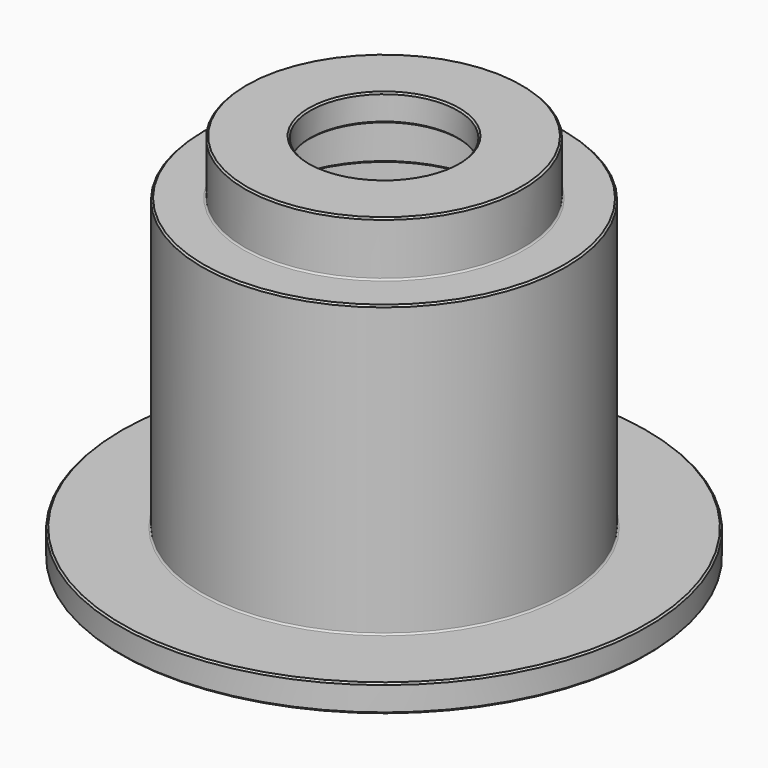
from build123d import *

# Parameters (mm, degrees)
F2_R    = 0.381
F3_SIZE = 0.381


with BuildPart() as f1:
    # F0 (on Front) → F1 (revolve)
    with BuildSketch(Plane.XZ):
        Polygon((-26, 0), (-17.145, 0), (-17.145, 6.35), (-32.35, 6.35), (-32.35, -6.35), (-42.35, -6.35), (-42.35, -73.775001), (-61.4, -73.775001), (-61.4, -80.125001), (-36, -80.125001), (-36, -12.7), (-26, -12.7), align=None)
    revolve(axis=Axis((0, 0, -27.375497), (0, 0, -1)))

    # F2
    f2_edges = [f1.edges().sort_by_distance(p)[0] for p in [
        (32.35, 0, -6.35),
        (42.35, 0, -73.775001),
        (36, 0, -12.7),
        (26, 0, 0),
    ]]
    fillet(f2_edges, radius=F2_R)

    # F3
    f3_edges = [f1.edges().sort_by_distance(p)[0] for p in [
        (32.35, 0, 6.35),
        (17.145, 0, 6.35),
        (42.35, 0, -6.35),
        (61.4, 0, -73.775001),
        (61.4, 0, -80.125001),
        (36, 0, -80.125001),
        (26, 0, -12.7),
        (17.145, 0, 0),
    ]]
    chamfer(f3_edges, length=F3_SIZE)


solid = f1.part
